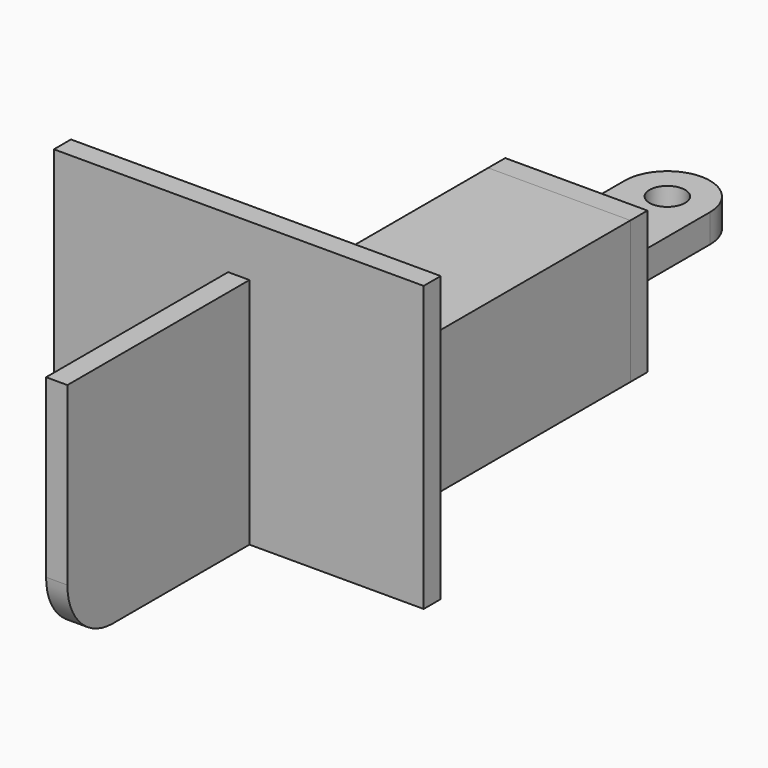
from build123d import *

# Parameters (mm, degrees)
F0_R          = 7.9375
F1_DEPTH      = 6.35
F1_DEPTH_BACK = 6.35
F2_W          = 63.5
F2_H          = 63.5
F3_DEPTH      = 9.525
F4_W          = 63.5
F4_H          = 63.5
F4_W_2        = 50.8
F4_H_2        = 50.8
F5_DEPTH      = 169.3366438
F6_W          = 165.1
F6_H          = 127
F7_DEPTH      = 9.525
F9_DEPTH      = 4.7625
F9_DEPTH_BACK = 4.7625


with BuildPart() as f1:
    # F0 (on Top) → F1 (new body, two sides)
    with BuildSketch(Plane.XY) as f1_sk:
        with BuildLine():
            Line((19.05, -50.8), (19.05, 0))
            ThreePointArc((19.05, 0), (0, 19.05), (-19.05, 0))
            Line((-19.05, 0), (-19.05, -50.8))
            Line((-19.05, -50.8), (19.05, -50.8))
        make_face()
        Circle(F0_R, mode=Mode.SUBTRACT)
    extrude(amount=F1_DEPTH)
    extrude(f1_sk.sketch, amount=-F1_DEPTH_BACK)

    # F2 (on face) → F3 (join)
    with BuildSketch(Plane.XZ.offset(50.8)):
        Rectangle(F2_W, F2_H)
    extrude(amount=F3_DEPTH)


with BuildPart() as f5:
    # F4 (on face) → F5 (new body)
    with BuildSketch(Plane.XZ.offset(60.325)):
        Rectangle(F4_W, F4_H)
        Rectangle(F4_W_2, F4_H_2, mode=Mode.SUBTRACT)
    extrude(amount=F5_DEPTH)


with BuildPart() as f7:
    # F6 (on face) → F7 (new body)
    with BuildSketch(Plane.XZ.offset(229.6616438)):
        with Locations((0, 31.75)):
            Rectangle(F6_W, F6_H)
    extrude(amount=F7_DEPTH)


with BuildPart() as f9:
    # F8 (on Right) → F9 (new body, two sides)
    with BuildSketch(Plane.YZ) as f9_sk:
        with BuildLine():
            Line((-315.3866438, -31.75), (-239.1866438, -31.75))
            Line((-239.1866438, -31.75), (-239.1866438, 72.2632286))
            Line((-239.1866438, 72.2632286), (-340.7866438, 72.2632286))
            Line((-340.7866438, 72.2632286), (-340.7866438, -6.35))
            ThreePointArc((-340.7866438, -6.35), (-333.3471560421, -24.3105122421), (-315.3866438, -31.75))
        make_face()
    extrude(amount=F9_DEPTH)
    extrude(f9_sk.sketch, amount=-F9_DEPTH_BACK)


solid = Compound([f1.part, f5.part, f7.part, f9.part])
